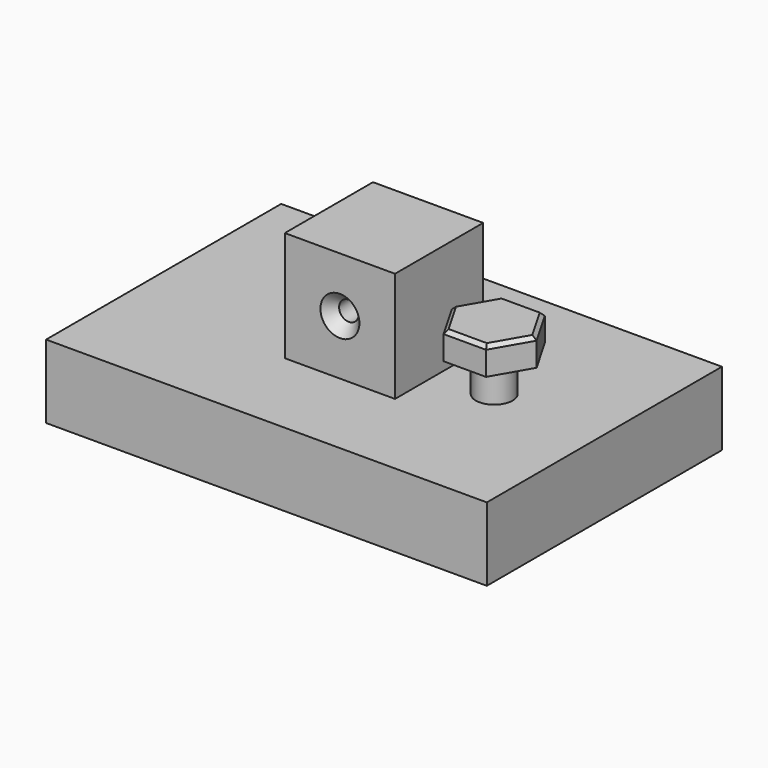
from build123d import *

# Parameters (mm, degrees)
F0_W            = 152.4
F0_H            = 101.6
F0_R            = 6.35
F1_DEPTH        = 12.7
F2_W            = 38.1
F2_H            = 38.1
F3_DEPTH        = 38.1
F4_DEPTH        = 25.4
F7_DEPTH        = 9.525
F8_SIZE         = 1.27
F10_D           = 6.7564
F10_CSINK_D     = 13.4874
F10_CSINK_ANGLE = 82


with BuildPart() as f1:
    # F0 (on Top) → F1 (new body, symmetric)
    with BuildSketch(Plane.XY):
        Rectangle(F0_W, F0_H)
        Polygon((45.4323484187, 12.7), (52.7646968374, 0), (45.4323484187, -12.7), (30.7676515813, -12.7), (23.4353031626, 0), (30.7676515813, 12.7), align=None, mode=Mode.SUBTRACT)
        Polygon((45.4323484187, -12.7), (52.7646968374, 0), (45.4323484187, 12.7), (30.7676515813, 12.7), (23.4353031626, 0), (30.7676515813, -12.7), align=None)
        with Locations((38.1, 0)):
            Circle(F0_R, mode=Mode.SUBTRACT)
    extrude(amount=F1_DEPTH, both=True)


with BuildPart() as f3:
    # F2 (on face) → F3 (new body)
    with BuildSketch(Plane.XY.offset(12.7)):
        Rectangle(F2_W, F2_H)
    extrude(amount=F3_DEPTH)

    # F10 (through all)
    with Locations(Plane.XZ.offset(19.05)):
        with Locations((0, 31.75)):
            CounterSinkHole(F10_D / 2, F10_CSINK_D / 2, counter_sink_angle=F10_CSINK_ANGLE)


with BuildPart() as f4:
    # F0 (on Top) → F4 (new body, symmetric)
    with BuildSketch(Plane.XY):
        with Locations((38.1, 0)):
            Circle(F0_R)
    extrude(amount=F4_DEPTH, both=True)

    # F6 (on face) → F7 (join)
    with BuildSketch(Plane.XY.offset(25.4)):
        Polygon((30.7676515813, -12.7), (45.4323484187, -12.7), (52.7646968374, 0), (45.4323484187, 12.7), (30.7676515813, 12.7), (23.4353031626, 0), align=None)
    extrude(amount=F7_DEPTH)

    # F8
    f8_edges = [f4.edges().sort_by_distance(p)[0] for p in [
        (27.101477, -6.35, 34.925),
        (38.1, -12.7, 34.925),
        (49.098523, -6.35, 34.925),
        (49.098523, 6.35, 34.925),
        (38.1, 12.7, 34.925),
        (27.101477, 6.35, 34.925),
    ]]
    chamfer(f8_edges, length=F8_SIZE)


solid = Compound([f1.part, f3.part, f4.part])
